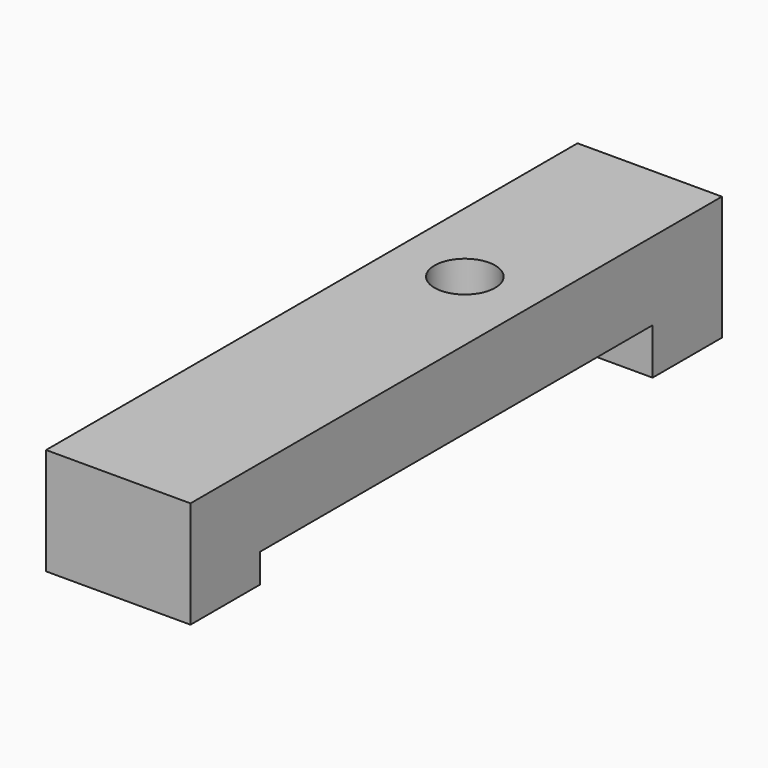
from build123d import *

# Parameters (mm, degrees)
F0_W     = 50
F0_H     = 230
F1_DEPTH = 27
F2_W     = 30
F2_H     = 10
F2_H_2   = 16
F3_DEPTH = 50
F5_D     = 21


with BuildPart() as f1:
    # F0 (on Top) → F1 (new body)
    with BuildSketch(Plane.XY):
        Rectangle(F0_W, F0_H)
    extrude(amount=F1_DEPTH)

    # F2 (on face) → F3 (join, through all)
    with BuildSketch(Plane(origin=(-25, 0, 0), x_dir=(0, -1, 0), z_dir=(-1, 0, 0))):
        with Locations((100, -5)):
            Rectangle(F2_W, F2_H)
        with Locations((-100, -8)):
            Rectangle(F2_W, F2_H_2)
    extrude(amount=-F3_DEPTH)

    # F5 (through all)
    with Locations(Plane.XY.offset(27)):
        with Locations((0, 35)):
            Hole(F5_D / 2)


solid = f1.part
